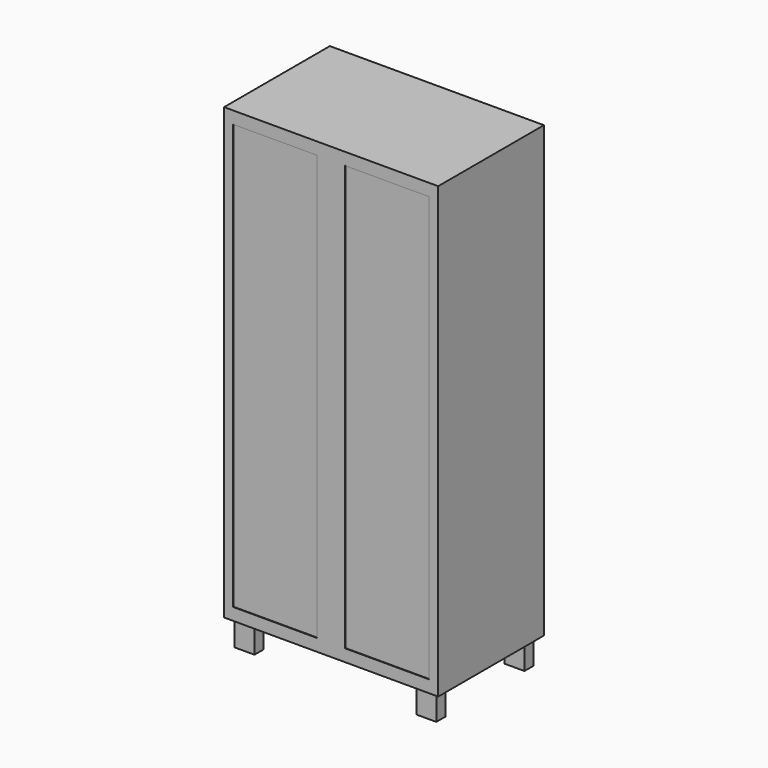
from build123d import *

# Parameters (mm, degrees)
F0_W     = 810
F0_H     = 500
F1_DEPTH = 1700
F2_W     = 75.7292719425
F2_H     = 43.1599973455
F3_DEPTH = 100
F4_W     = 317.8355082985
F4_H     = 1607.6748847961
F5_DEPTH = 3
F5_TAPER = -10


with BuildPart() as f1:
    # F0 (on Top) → F1 (new body)
    with BuildSketch(Plane.XY):
        Rectangle(F0_W, F0_H)
    extrude(amount=F1_DEPTH)

    # F2 (on face) → F3 (join)
    with BuildSketch(Plane(origin=(0, 0, 0), x_dir=(1, 0, 0), z_dir=(0, 0, -1))):
        with Locations((-343.9869582653, 208.3826959133)):
            Rectangle(F2_W, F2_H)
        with Locations((343.9869582653, 208.3826959133)):
            Rectangle(F2_W, F2_H)
        with Locations((343.9869582653, -208.3826959133)):
            Rectangle(F2_W, F2_H)
        with Locations((-343.9869582653, -208.3826959133)):
            Rectangle(F2_W, F2_H)
    extrude(amount=F3_DEPTH)

    # F4 (on face) → F5 (cut)
    with BuildSketch(Plane.XZ.offset(250)):
        with Locations((-211.9153991399, 850)):
            Rectangle(F4_W, F4_H)
        with Locations((211.9153991399, 850)):
            Rectangle(F4_W, F4_H)
    extrude(amount=-F5_DEPTH, taper=F5_TAPER, mode=Mode.SUBTRACT)


solid = f1.part
